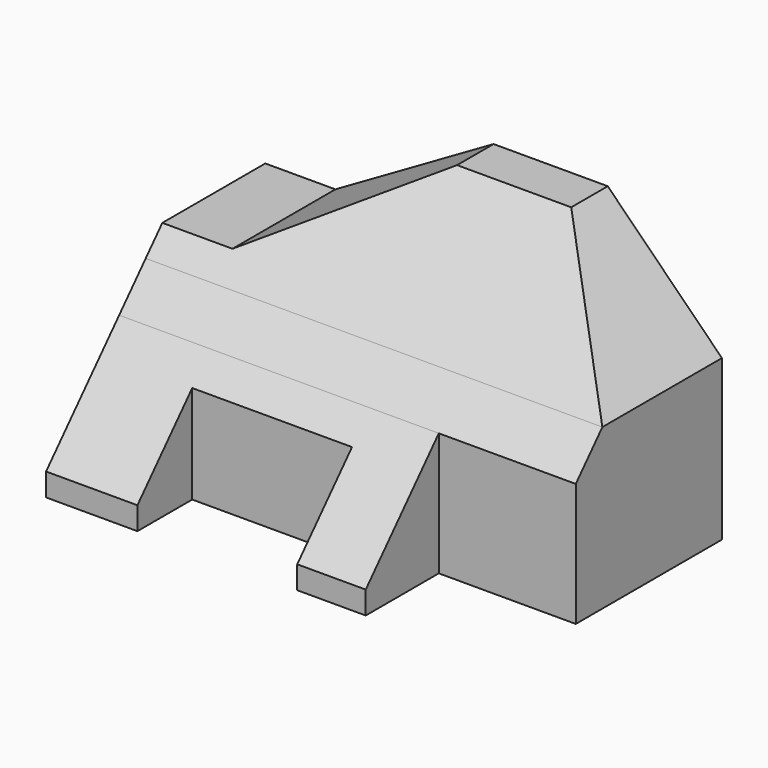
from build123d import *

# Parameters (mm, degrees)
F1_DEPTH = 60
F3_DEPTH = 60.001
F5_DEPTH = 79.7


with BuildPart() as f1:
    # F0 (on Top) → F1 (new body)
    with BuildSketch(Plane.XY):
        Polygon((15.1816067746, 47.7955947455), (-84.8183932254, 47.7955947455), (-84.8183932254, -12.2044052545), (-64.8183932254, -12.2044052545), (-64.8183932254, 2.7955947455), (-29.8183932254, 2.7955947455), (-29.8183932254, -12.2044052545), (-14.8183932254, -12.2044052545), (-14.8183932254, 7.7955947455), (15.1816067746, 7.7955947455), align=None)
    extrude(amount=F1_DEPTH)

    # F2 (on face) → F3 (cut, through all)
    with BuildSketch(Plane.XZ.offset(12.2044052545)):
        Polygon((-69.4594093768, 40), (-34.8183932254, 60), (-84.8183932254, 60), (-84.8183932254, 40), align=None)
        Polygon((15.1816067746, 60), (-9.8183932254, 60), (15.1816067746, 35), align=None)
    extrude(amount=-F3_DEPTH, mode=Mode.SUBTRACT)

    # F4 (on face) → F5 (cut, symmetric)
    with BuildSketch(Plane.YZ.offset(-14.8183932254)):
        Polygon((-12.2044052545, 60), (-12.2044052545, 5), (7.7955947455, 27), (7.7955947455, 35), (7.7955947455, 60), align=None)
        Polygon((7.7955947455, 60), (7.7955947455, 35), (15.0683220182, 35), (37.7955947455, 60), align=None)
        Polygon((7.7955947455, 35), (7.7955947455, 27), (15.0683220182, 35), align=None)
    extrude(amount=F5_DEPTH, both=True, mode=Mode.SUBTRACT)


solid = f1.part
